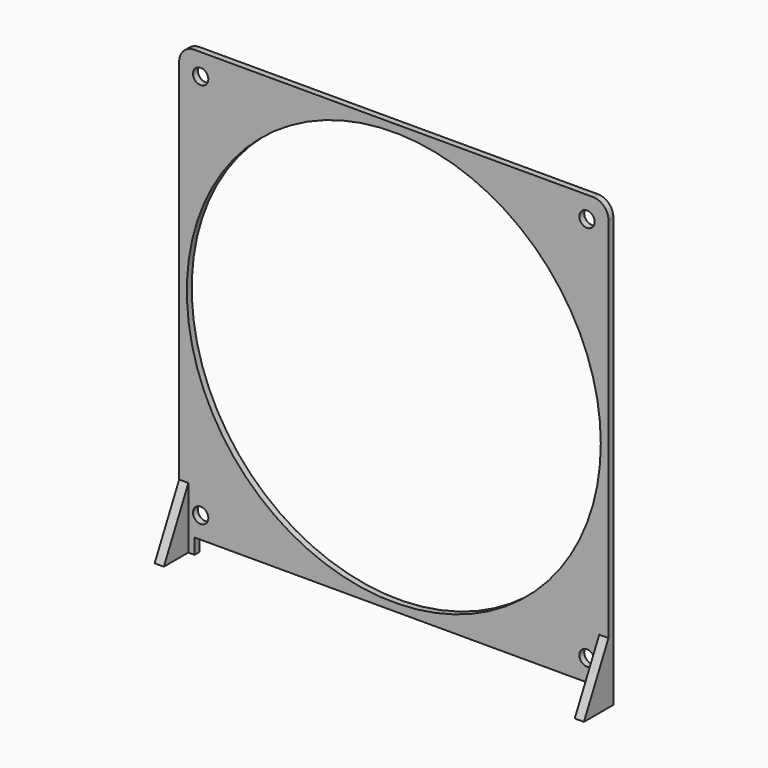
from build123d import *

# Parameters (mm, degrees)
F0_R     = 2.5
F0_R_2   = 67.5
F1_DEPTH = 2
F3_DEPTH = 3
F5_DEPTH = 3


with BuildPart() as f1:
    # F0 (on Front) → F1 (new body)
    with BuildSketch(Plane.XZ):
        with BuildLine():
            Line((-65, -75), (-65, -70))
            Line((-65, -70), (65, -70))
            Line((65, -70), (65, -75))
            Line((65, -75), (70, -75))
            Line((70, -75), (70, 65))
            ThreePointArc((70, 65), (68.535534, 68.535534), (65, 70))
            Line((65, 70), (-65, 70))
            ThreePointArc((-65, 70), (-68.535534, 68.535534), (-70, 65))
            Line((-70, 65), (-70, -75))
            Line((-70, -75), (-65, -75))
        make_face()
        with Locations((-63, -63)):
            Circle(F0_R, mode=Mode.SUBTRACT)
        with Locations((63, -63)):
            Circle(F0_R, mode=Mode.SUBTRACT)
        with Locations((-63, 63)):
            Circle(F0_R, mode=Mode.SUBTRACT)
        Circle(F0_R_2, mode=Mode.SUBTRACT)
        with Locations((63, 63)):
            Circle(F0_R, mode=Mode.SUBTRACT)
    extrude(amount=F1_DEPTH)

    # F4 (on face) → F5 (join)
    with BuildSketch(Plane.YZ.offset(70)):
        Polygon((-12, -75), (-2, -75), (-2, -55), align=None)
    extrude(amount=-F5_DEPTH)


with BuildPart() as f3:
    # F2 (on face) → F3 (new body)
    with BuildSketch(Plane(origin=(-70, 0, 0), x_dir=(0, -1, 0), z_dir=(-1, 0, 0))):
        Polygon((2, -55), (2, -75), (12, -75), align=None)
    extrude(amount=-F3_DEPTH)


solid = Compound([f1.part, f3.part])
